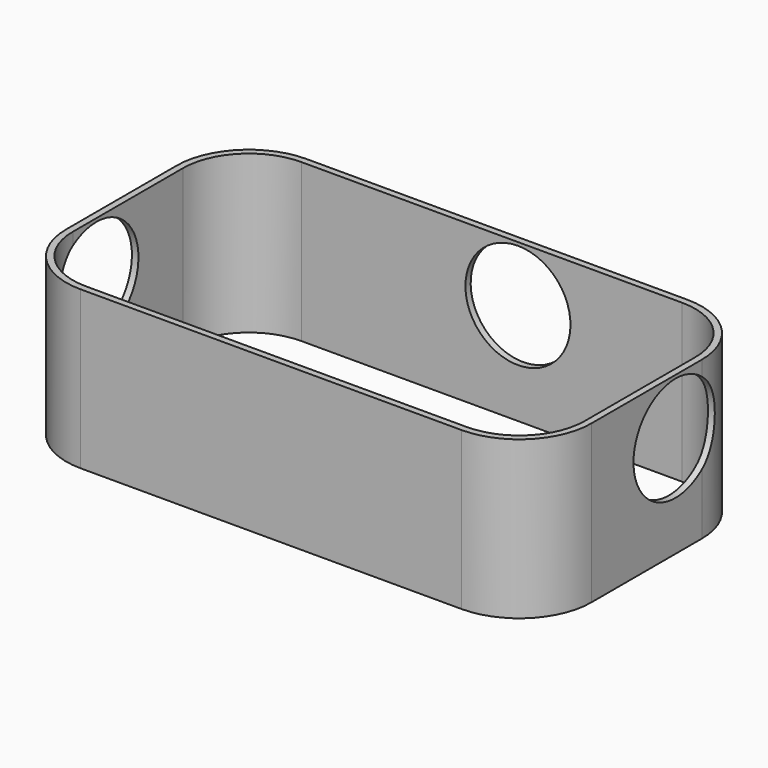
from build123d import *

# Parameters (mm, degrees)
CYLINDER033_R     = 8
CYLINDER033_DEPTH = 10
CYLINDER034_R     = 8
CYLINDER034_DEPTH = 10
CYLINDER042_R     = 8
CYLINDER042_DEPTH = 10
PAD_DEPTH         = 24


with BuildPart() as b_w:
    # Cylinder033 → Cylinder033 (new body)
    with BuildSketch(Plane(origin=(5, 15.5, 15.5), x_dir=(0, 0, 1), z_dir=(-1, 0, 0))):
        Circle(CYLINDER033_R)
    extrude(amount=CYLINDER033_DEPTH)


with BuildPart() as b_o:
    # Cylinder034 → Cylinder034 (new body)
    with BuildSketch(Plane(origin=(85, 27, 15.5), x_dir=(0, 0, 1), z_dir=(-1, 0, 0))):
        Circle(CYLINDER034_R)
    extrude(amount=CYLINDER034_DEPTH)


with BuildPart() as b_n001:
    # Cylinder042 → Cylinder042 (new body)
    with BuildSketch(Plane(origin=(44, 38, 15.5), x_dir=(0, 0, 1), z_dir=(0, 1, 0))):
        Circle(CYLINDER042_R)
    extrude(amount=CYLINDER042_DEPTH)


with BuildPart() as cut034:
    # Sketch → Pad (new body)
    with BuildSketch(Plane.XY):
        with BuildLine():
            Line((11, 0), (69, 0))
            ThreePointArc((69, 0), (76.778175, 3.221825), (80, 11))
            Line((80, 11), (80, 32))
            ThreePointArc((80, 32), (76.778175, 39.778175), (69, 43))
            Line((69, 43), (11, 43))
            ThreePointArc((11, 43), (3.221825, 39.778175), (0, 32))
            Line((0, 32), (0, 11))
            ThreePointArc((0, 11), (3.221825, 3.221825), (11, 0))
        make_face()
        with BuildLine():
            Line((11, 1), (69, 1))
            ThreePointArc((69, 1), (76.071068, 3.928932), (79, 11))
            Line((79, 11), (79, 32))
            ThreePointArc((79, 32), (76.071068, 39.071068), (69, 42))
            Line((69, 42), (11, 42))
            ThreePointArc((11, 42), (3.928932, 39.071068), (1, 32))
            Line((1, 32), (1, 11))
            ThreePointArc((1, 11), (3.928932, 3.928932), (11, 1))
        make_face(mode=Mode.SUBTRACT)
    extrude(amount=PAD_DEPTH)

    # Cut032: cut B_N001
    add(b_n001.part, mode=Mode.SUBTRACT)

    # Cut033: cut B_O
    add(b_o.part, mode=Mode.SUBTRACT)

    # Cut034: cut B_W
    add(b_w.part, mode=Mode.SUBTRACT)


solid = cut034.part
